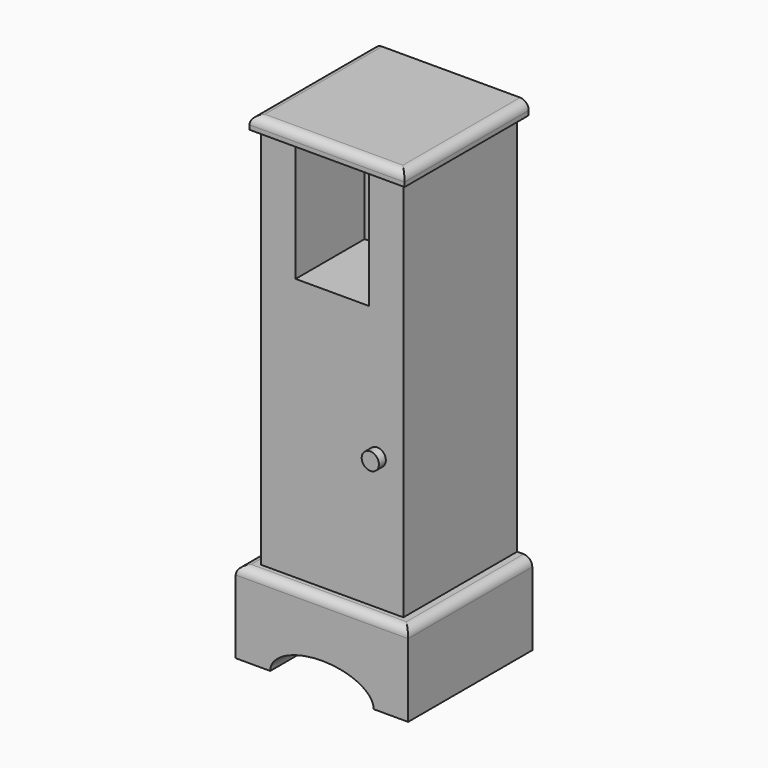
from build123d import *

# Parameters (mm, degrees)
F0_W      = 254
F0_H      = 228.6
F1_DEPTH  = 120.65
F2_W      = 209.55
F2_H      = 209.55
F3_DEPTH  = 565.15
F5_DEPTH  = 19.05
F6_W      = 107.95
F6_H      = 177.8
F7_DEPTH  = 127
F8_R      = 12.7
F9_DEPTH  = 12.7
F10_R     = 12.7
F12_DEPTH = 127


with BuildPart() as f1:
    # F0 (on Top) → F1 (new body)
    with BuildSketch(Plane.XY):
        Rectangle(F0_W, F0_H)
    extrude(amount=F1_DEPTH)

    # F2 (on face) → F3 (join)
    with BuildSketch(Plane.XY.offset(120.65)):
        with Locations((0, 9.525)):
            Rectangle(F2_W, F2_H)
    extrude(amount=F3_DEPTH)

    # F4 (on face) → F5 (join)
    with BuildSketch(Plane.XY.offset(685.8)):
        Polygon((114.3, 123.608778), (-114.3, 123.608778), (-114.3, -104.991222), (0, -104.991222), (114.3, -104.991222), align=None)
        Polygon((104.775, -95.25), (0, -95.25), (-104.775, -95.25), (-104.775, 114.3), (104.775, 114.3), align=None, mode=Mode.SUBTRACT)
        Polygon((-104.775, -95.25), (0, -95.25), (104.775, -95.25), (104.775, 114.3), (-104.775, 114.3), align=None)
    extrude(amount=F5_DEPTH)

    # F6 (on face) → F7 (cut)
    with BuildSketch(Plane.XZ.offset(95.25)):
        with Locations((0, 596.9)):
            Rectangle(F6_W, F6_H)
    extrude(amount=-F7_DEPTH, mode=Mode.SUBTRACT)

    # F8 (on face) → F9 (join)
    with BuildSketch(Plane.XZ.offset(95.25)):
        with Locations((66.185057, 315.886974)):
            Circle(F8_R)
    extrude(amount=F9_DEPTH)

    # F10
    f10_edges = [f1.edges().sort_by_distance(p)[0] for p in [
        (127, 0, 120.65),
        (0, -114.3, 120.65),
        (-127, 0, 120.65),
        (114.3, 9.308778, 704.85),
        (0, -104.991222, 704.85),
        (-114.3, 9.308778, 704.85),
    ]]
    fillet(f10_edges, radius=F10_R)

    # F11 (on face) → F12 (cut)
    with BuildSketch(Plane.XZ.offset(114.3)):
        with BuildLine():
            add(Edge.make_bspline(
                [(-76.2, 0), (-76.2, -38.1), (0, -38.1), (76.2, -38.1), (76.2, 0)],
                knots=[3.141593, 3.141593, 3.141593, 4.712389, 4.712389, 6.283185, 6.283185, 6.283185], degree=2, weights=[1, 0.707107, 1, 0.707107, 1]))
            Line((76.2, 0), (-76.2, 0))
        make_face()
        with BuildLine():
            Line((-76.2, 0), (76.2, 0))
            add(Edge.make_bspline(
                [(76.2, 0), (76.2, 38.1), (0, 38.1), (-76.2, 38.1), (-76.2, 0)],
                knots=[0, 0, 0, 1.570796, 1.570796, 3.141593, 3.141593, 3.141593], degree=2, weights=[1, 0.707107, 1, 0.707107, 1]))
        make_face()
    extrude(amount=-F12_DEPTH, mode=Mode.SUBTRACT)


solid = f1.part
